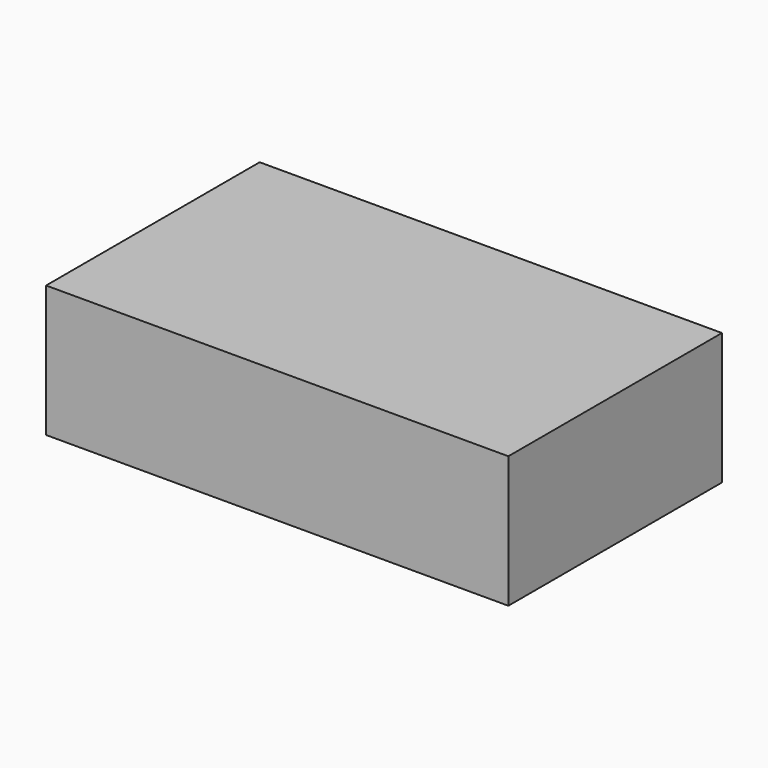
from build123d import *

# Parameters (mm, degrees)
F0_W     = 77.2908329964
F0_H     = 27.1624177694
F1_DEPTH = 25.4


with BuildPart() as f1:
    # F0 (on Top) → F1 (new body)
    with BuildSketch(Plane.XY):
        with Locations((20.4423815012, -1.9766315818)):
            Rectangle(F0_W, F0_H)
        Polygon((-18.203034997, -26.7603844404), (71.0021704435, -26.7603844404), (71.0021704435, 24.7513055801), (-18.203034997, 24.7513055801), (-18.203034997, 11.6045773029), (59.0877979994, 11.6045773029), (59.0877979994, -15.5578404665), (-18.203034997, -15.5578404665), align=None)
    extrude(amount=F1_DEPTH)


solid = f1.part
